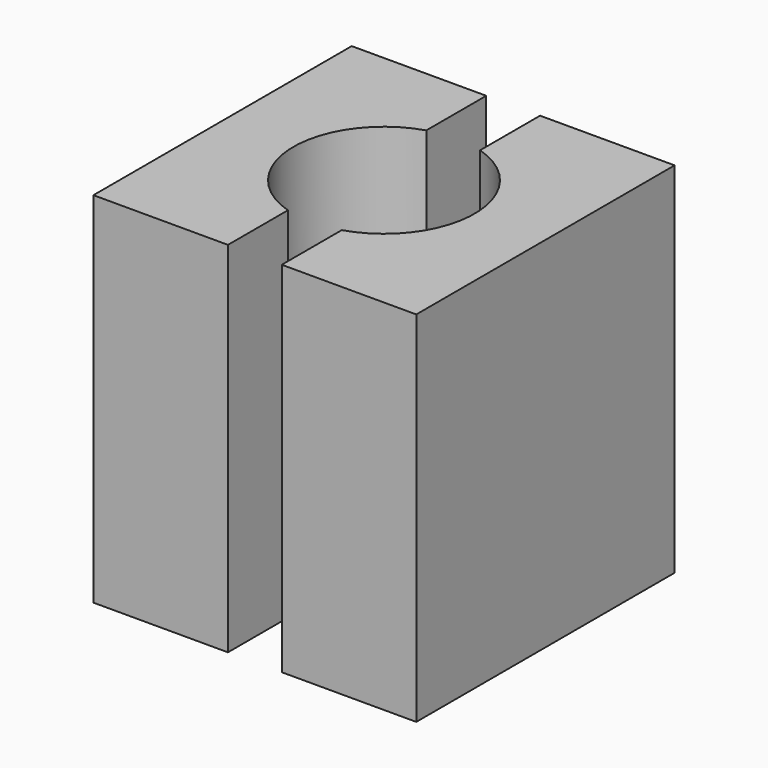
from build123d import *

# Parameters (mm, degrees)
F1_DEPTH = 20


with BuildPart() as f1:
    # F0 (on Top) → F1 (new body)
    with BuildSketch(Plane.XY):
        with BuildLine():
            ThreePointArc((1.5, 4.822085), (5.05, 0), (1.5, -4.822085))
            Line((1.5, -4.822085), (1.5, -9))
            Line((1.5, -9), (9, -9))
            Line((9, -9), (9, 9))
            Line((9, 9), (1.5, 9))
            Line((1.5, 9), (1.5, 4.822085))
        make_face()
        with BuildLine():
            Line((-1.5, 9), (-9, 9))
            Line((-9, 9), (-9, -9))
            Line((-9, -9), (-1.5, -9))
            Line((-1.5, -9), (-1.5, -4.822085))
            ThreePointArc((-1.5, -4.822085), (-5.05, 0), (-1.5, 4.822085))
            Line((-1.5, 4.822085), (-1.5, 9))
        make_face()
    extrude(amount=F1_DEPTH)


solid = f1.part
